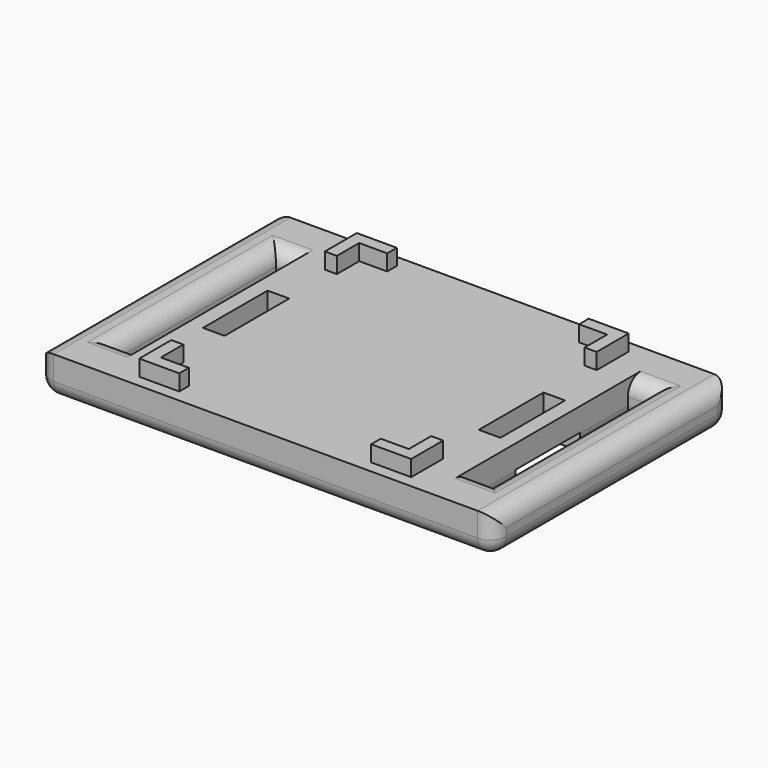
from build123d import *

# Parameters (mm, degrees)
SKETCH016_W     = 41
SKETCH016_H     = 37
SKETCH016_W_2   = 2.7
SKETCH016_H_2   = 10.1
PAD006_DEPTH    = 5
SKETCH017_W     = 1.9
SKETCH017_H     = 10.1
POCKET010_DEPTH = 2.1
PAD008_DEPTH    = 2
PAD007_DEPTH    = 5
FILLET_R        = 2
FILLET004_R     = 2
FILLET005_R     = 2


with BuildPart() as part:
    # Sketch016 → Pad006 (new body)
    with BuildSketch(Plane.XY):
        Rectangle(SKETCH016_W, SKETCH016_H)
        with Locations((-17.25, 0)):
            Rectangle(SKETCH016_W_2, SKETCH016_H_2, mode=Mode.SUBTRACT)
        with Locations((17.25, 0)):
            Rectangle(SKETCH016_W_2, SKETCH016_H_2, mode=Mode.SUBTRACT)
    extrude(amount=-PAD006_DEPTH)

    # Sketch017 (on Face14 of Pad006) → Pocket010 (cut)
    with BuildSketch(Plane(origin=(0, 0, -5), x_dir=(1, 0, 0), z_dir=(0, 0, -1))):
        with Locations((-19.55, 0)):
            Rectangle(SKETCH017_W, SKETCH017_H)
        with Locations((19.55, 0)):
            Rectangle(SKETCH017_W, SKETCH017_H)
    extrude(amount=-POCKET010_DEPTH, mode=Mode.SUBTRACT)

    # Sketch023 (on Face4 of Pocket010) → Pad008 (join)
    with BuildSketch(Plane.XY):
        Polygon((-17, 17), (-12, 17), (-12, 15.5), (-15.5, 15.5), (-15.5, 12), (-17, 12), align=None)
        Polygon((17, 17), (12, 17), (12, 15.5), (15.5, 15.5), (15.5, 12), (17, 12), align=None)
        Polygon((-17, -17), (-12, -17), (-12, -15.5), (-15.5, -15.5), (-15.5, -12), (-17, -12), align=None)
        Polygon((17, -17), (12, -17), (12, -15.5), (15.5, -15.5), (15.5, -12), (17, -12), align=None)
    extrude(amount=PAD008_DEPTH)

    # Sketch018 → Pad007 (join)
    with BuildSketch(Plane.XY):
        Polygon((-23.5, 12.5), (-20.5, 12.5), (-20.5, 18.5), (-28.5, 18.5), (-28.5, -18.5), (-20.5, -18.5), (-20.5, -12.5), (-23.5, -12.5), align=None)
        Polygon((20.5, 12.5), (23.5, 12.5), (23.5, -12.5), (20.5, -12.5), (20.5, -18.5), (28.5, -18.5), (28.5, 18.5), (20.5, 18.5), align=None)
    extrude(amount=-PAD007_DEPTH)

    # Fillet
    fillet_edges = [part.edges().sort_by_distance(p)[0] for p in [
        (-28.5, 18.5, -2.5),
        (-28.5, 0, 0),
        (-28.5, -18.5, -2.5),
        (-28.5, 0, -5),
        (28.5, -18.5, -2.5),
        (28.5, 0, 0),
        (28.5, 18.5, -2.5),
        (28.5, 0, -5),
        (23.5, 0, -5),
        (23.5, 0, 0),
        (-23.5, 0, 0),
        (-23.5, 0, -5),
        (0, -18.5, -5),
        (0, 18.5, -5),
    ]]
    fillet(fillet_edges, radius=FILLET_R)

    # Fillet004
    fillet004_edges = [part.edges().sort_by_distance(p)[0] for p in [
        (-20.5, 8.775, -5),
        (-20.5, -8.775, -5),
        (20.5, 8.775, -5),
        (20.5, -8.775, -5),
    ]]
    fillet(fillet004_edges, radius=FILLET004_R)

    # Fillet005
    fillet005_edges = [part.edges().sort_by_distance(p)[0] for p in [
        (-22, -12.5, -5),
        (-22, 12.5, -5),
        (22, 12.5, -5),
        (-22, 12.5, 0),
        (-22, -12.5, 0),
        (22, 12.5, 0),
        (22, -12.5, 0),
        (22, -12.5, -5),
    ]]
    fillet(fillet005_edges, radius=FILLET005_R)


solid = part.part
